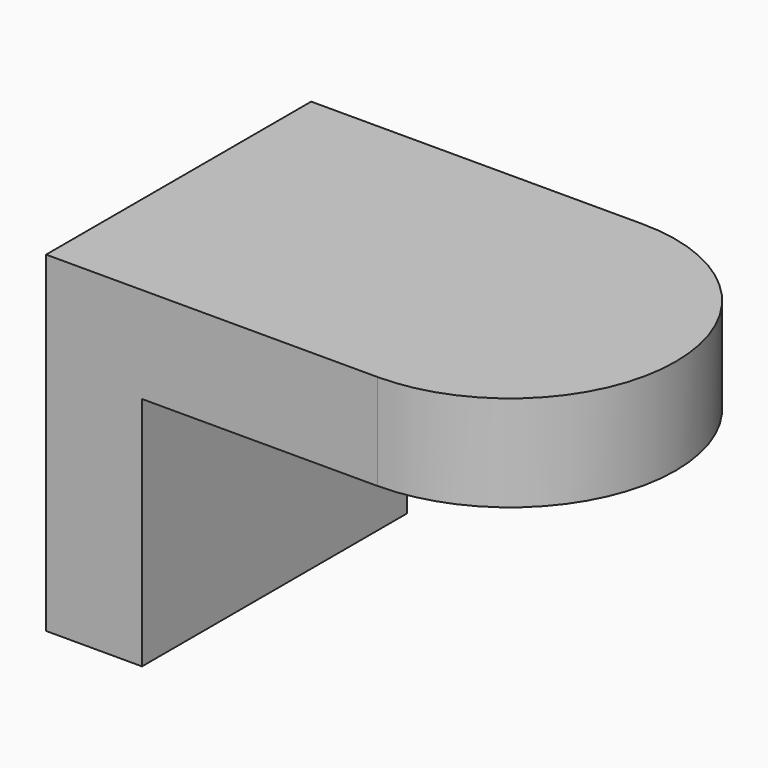
from build123d import *

# Parameters (mm, degrees)
F0_W     = 38
F0_H     = 38
F1_DEPTH = 11
F2_W     = 11
F2_H     = 38
F3_DEPTH = 27


with BuildPart() as f1:
    # F0 (on Top) → F1 (new body)
    with BuildSketch(Plane.XY):
        with Locations((-18.207224, 0.441843)):
            Rectangle(F0_W, F0_H)
        with BuildLine():
            ThreePointArc((0.792776, -18.558157), (19.792776, 0.441843), (0.792776, 19.441843))
            Line((0.792776, 19.441843), (0.792776, -18.558157))
        make_face()
    extrude(amount=-F1_DEPTH)

    # F2 (on face) → F3 (join)
    with BuildSketch(Plane(origin=(0, 0, -11), x_dir=(1, 0, 0), z_dir=(0, 0, -1))):
        with Locations((-31.707224, -0.441843)):
            Rectangle(F2_W, F2_H)
    extrude(amount=F3_DEPTH)


solid = f1.part
